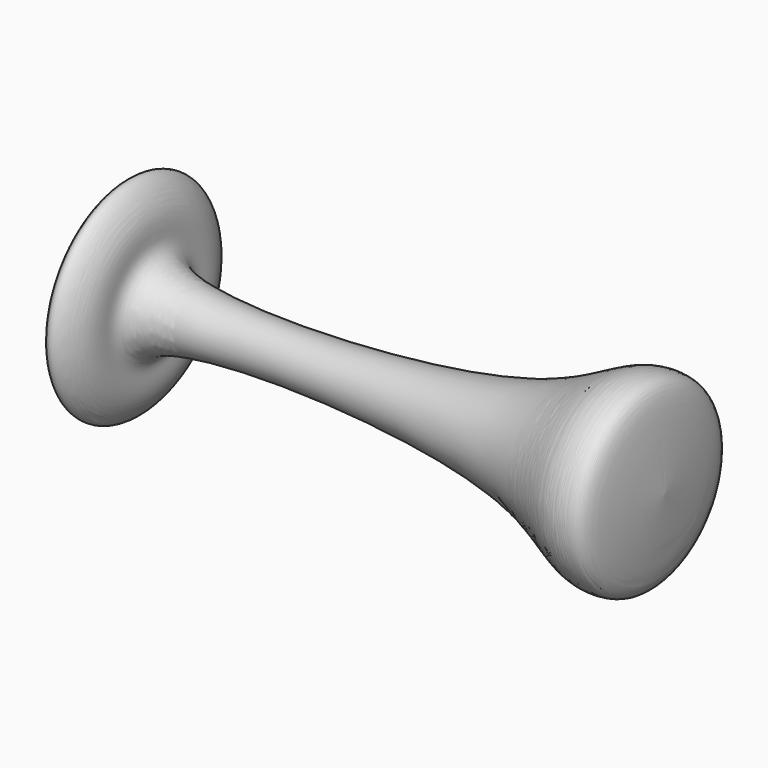
from build123d import *


with BuildPart() as f1:
    # F0 (on Front) → F1 (revolve)
    with BuildSketch(Plane.XZ):
        with BuildLine():
            add(Edge.make_bspline(
                [(-55.6409722979, 0), (-55.6409722979, 12.442535743), (-56.9971528566, 18.2016496694), (-52.5341588117, 27.7966997045), (-47.2422957857, 20.7099408693), (-46.8742386794, 15.131135722), (-47.7002763231, 3.5001200315), (42.41687779, 6.22453183), (62.1117597822, 22.5322517769), (74.0737123788, 22.9253209869), (75.428210778, 19.7051869165), (76.7107343874, 0)],
                knots=[0, 0, 0, 0, 0.1253904332, 0.1919320705, 0.2603153071, 0.328038541, 0.3961920437, 0.6489168257, 0.7940045764, 0.8671018298, 1, 1, 1, 1], degree=3))
            Line((-55.6409722979, 0), (76.7107343874, 0))
        make_face()
    revolve(axis=Axis((10.5348810447, 0, 0), (1, 0, 0)))


solid = f1.part
